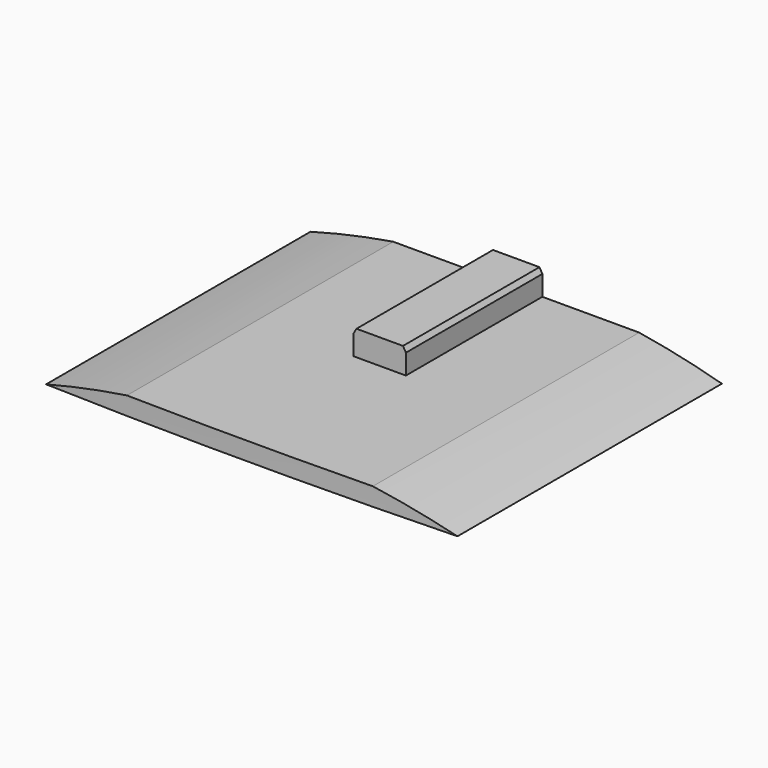
from build123d import *

# Parameters (mm, degrees)
F1_DEPTH  = 2000
F3_DEPTH  = 600.001
F6_DEPTH  = 1995.001
F8_DEPTH  = 1410
F10_DEPTH = 800
F12_DEPTH = 1995.001


with BuildPart() as f1:
    # F0 (on Front) → F1 (new body)
    with BuildSketch(Plane.XZ):
        with BuildLine():
            ThreePointArc((1355.2, 2268.467492), (1322.870911, 2382.422107), (1235.516548, 2462.422356))
            ThreePointArc((1235.516548, 2462.422356), (634.843055, 2680.85794), (0, 2755))
            ThreePointArc((0, 2755), (-634.843055, 2680.85794), (-1235.516548, 2462.422356))
            ThreePointArc((-1235.516548, 2462.422356), (-1322.870911, 2382.422107), (-1355.2, 2268.467492))
            Line((-1355.2, 2268.467492), (-1357.791007, 2155))
            Line((-1357.791007, 2155), (0, 2155))
            Line((0, 2155), (1357.791007, 2155))
            Line((1357.791007, 2155), (1355.2, 2268.467492))
        make_face()
    extrude(amount=-F1_DEPTH)

    # F2 (on face) → F3 (cut, through all)
    with BuildSketch(Plane(origin=(0, 0, 2155), x_dir=(1, 0, 0), z_dir=(0, 0, -1))):
        with BuildLine():
            ThreePointArc((-1357.791007, -50), (0, -5), (1357.791007, -50))
            Line((1357.791007, -50), (1357.791007, 0))
            Line((1357.791007, 0), (-1357.791007, 0))
            Line((-1357.791007, 0), (-1357.791007, -50))
        make_face()
    extrude(amount=-F3_DEPTH, mode=Mode.SUBTRACT)

    # F5 (on face) → F6 (cut, through all)
    with BuildSketch(Plane(origin=(0, 2000, 0), x_dir=(-1, 0, 0), z_dir=(0, 1, 0))):
        with BuildLine():
            Line((-439.645053, 2719.694326), (0, 2719.694326))
            Line((0, 2719.694326), (439.645053, 2719.694326))
            ThreePointArc((439.645053, 2719.694326), (220.530193, 2746.159397), (0, 2755))
            ThreePointArc((0, 2755), (-220.530193, 2746.159397), (-439.645053, 2719.694326))
        make_face()
    extrude(amount=-F6_DEPTH, mode=Mode.SUBTRACT)

    # F7 (on face) → F8 (join)
    with BuildSketch(Plane(origin=(0, 2000, 0), x_dir=(-1, 0, 0), z_dir=(0, 1, 0))):
        with BuildLine():
            ThreePointArc((-93.5, 2753.412928), (0, 2755), (93.5, 2753.412928))
            Line((93.5, 2753.412928), (93.5, 2791.694326))
            Line((93.5, 2791.694326), (83.107695, 2809.694326))
            Line((83.107695, 2809.694326), (0, 2809.694326))
            Line((0, 2809.694326), (-83.107695, 2809.694326))
            Line((-83.107695, 2809.694326), (-93.5, 2791.694326))
            Line((-93.5, 2791.694326), (-93.5, 2753.412928))
        make_face()
        with BuildLine():
            Line((-93.5, 2719.694326), (93.5, 2719.694326))
            Line((93.5, 2719.694326), (93.5, 2753.412928))
            ThreePointArc((93.5, 2753.412928), (0, 2755), (-93.5, 2753.412928))
            Line((-93.5, 2753.412928), (-93.5, 2719.694326))
        make_face()
        with BuildLine():
            Line((-93.5, 2719.694326), (93.5, 2719.694326))
            Line((93.5, 2719.694326), (93.5, 2753.412928))
            ThreePointArc((93.5, 2753.412928), (0, 2755), (-93.5, 2753.412928))
            Line((-93.5, 2753.412928), (-93.5, 2719.694326))
        make_face()
        with BuildLine():
            ThreePointArc((-93.5, 2753.412928), (0, 2755), (93.5, 2753.412928))
            Line((93.5, 2753.412928), (93.5, 2791.694326))
            Line((93.5, 2791.694326), (83.107695, 2809.694326))
            Line((83.107695, 2809.694326), (0, 2809.694326))
            Line((0, 2809.694326), (-83.107695, 2809.694326))
            Line((-83.107695, 2809.694326), (-93.5, 2791.694326))
            Line((-93.5, 2791.694326), (-93.5, 2753.412928))
        make_face()
    extrude(amount=-F8_DEPTH)

    # F9 (on face) → F10 (cut)
    with BuildSketch(Plane(origin=(0, 2000, 0), x_dir=(-1, 0, 0), z_dir=(0, 1, 0))):
        with BuildLine():
            ThreePointArc((1355.2, 2268.467492), (1322.870911, 2382.422107), (1235.516548, 2462.422356))
            ThreePointArc((1235.516548, 2462.422356), (847.401212, 2621.437809), (439.645053, 2719.694326))
            Line((439.645053, 2719.694326), (93.5, 2719.694326))
            Line((93.5, 2719.694326), (93.5, 2791.694326))
            Line((93.5, 2791.694326), (83.107695, 2809.694326))
            Line((83.107695, 2809.694326), (-83.107695, 2809.694326))
            Line((-83.107695, 2809.694326), (-93.5, 2791.694326))
            Line((-93.5, 2791.694326), (-93.5, 2719.694326))
            Line((-93.5, 2719.694326), (-439.645053, 2719.694326))
            ThreePointArc((-439.645053, 2719.694326), (-847.401212, 2621.437809), (-1235.516548, 2462.422356))
            ThreePointArc((-1235.516548, 2462.422356), (-1322.870911, 2382.422107), (-1355.2, 2268.467492))
            Line((-1355.2, 2268.467492), (-1357.791007, 2155))
            Line((-1357.791007, 2155), (1357.791007, 2155))
            Line((1357.791007, 2155), (1355.2, 2268.467492))
        make_face()
    extrude(amount=-F10_DEPTH, mode=Mode.SUBTRACT)

    # F11 (on face) → F12 (cut, through all)
    with BuildSketch(Plane(origin=(0, 2000, 0), x_dir=(-1, 0, 0), z_dir=(0, 1, 0))):
        with BuildLine():
            Line((735.527022, 2655), (-735.527022, 2655))
            ThreePointArc((-735.527022, 2655), (-990.214485, 2570.894839), (-1235.516548, 2462.422356))
            ThreePointArc((-1235.516548, 2462.422356), (-1322.870911, 2382.422107), (-1355.2, 2268.467492))
            Line((-1355.2, 2268.467492), (-1357.791007, 2155))
            Line((-1357.791007, 2155), (1357.791007, 2155))
            Line((1357.791007, 2155), (1355.2, 2268.467492))
            ThreePointArc((1355.2, 2268.467492), (1322.870911, 2382.422107), (1235.516548, 2462.422356))
            ThreePointArc((1235.516548, 2462.422356), (990.214485, 2570.894839), (735.527022, 2655))
        make_face()
    extrude(amount=-F12_DEPTH, mode=Mode.SUBTRACT)


solid = f1.part
